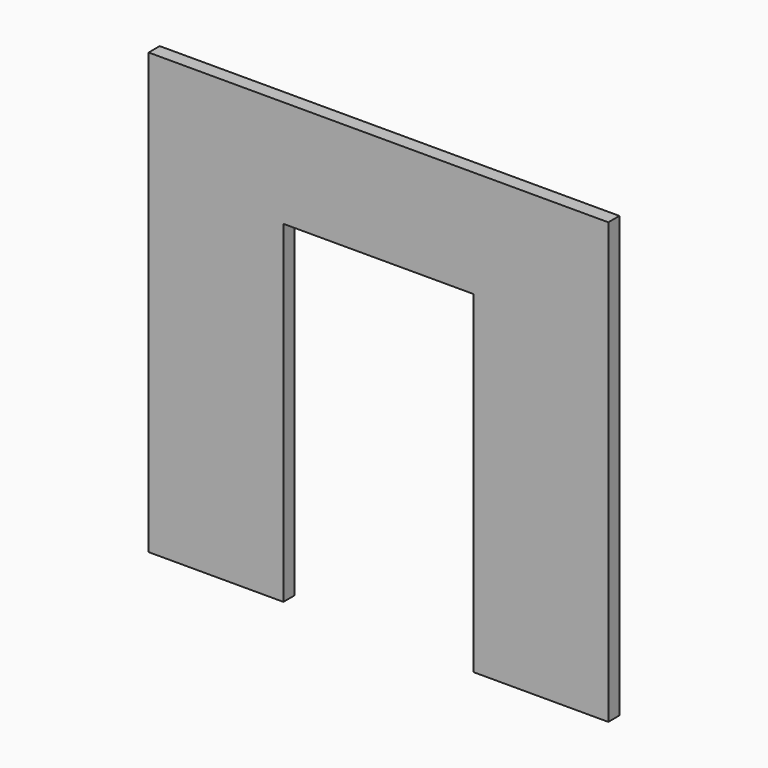
from build123d import *

# Parameters (mm, degrees)
F1_DEPTH = 12.7
F2_W     = 38.1
F2_H     = 2743.2
F2_H_2   = 609.6
F3_DEPTH = 76.2


with BuildPart() as f1:
    # F0 (on Front) → F1 (new body)
    with BuildSketch(Plane.XZ):
        Polygon((1473.2, -1409.7), (1473.2, 1409.7), (-1473.2, 1409.7), (-1473.2, -1409.7), (-609.6, -1409.7), (-609.6, 723.9), (609.6, 723.9), (609.6, -1409.7), align=None)
    extrude(amount=F1_DEPTH)

    # F2 (on face) → F3 (join)
    with BuildSketch(Plane(origin=(0, 0, 0), x_dir=(-1, 0, 0), z_dir=(0, 1, 0))):
        Polygon((1473.2, 1409.7), (-1473.2, 1409.7), (-1473.2, 1371.6), (-1435.1, 1371.6), (-1079.5, 1371.6), (-1041.4, 1371.6), (-647.7, 1371.6), (-609.6, 1371.6), (-38.1, 1371.6), (0, 1371.6), (609.6, 1371.6), (647.7, 1371.6), (1041.4, 1371.6), (1079.5, 1371.6), (1435.1, 1371.6), (1473.2, 1371.6), align=None)
        with Locations((-1454.15, 0)):
            Rectangle(F2_W, F2_H)
        with Locations((1454.15, 0)):
            Rectangle(F2_W, F2_H)
        Polygon((-1435.1, -1371.6), (-1473.2, -1371.6), (-1473.2, -1409.7), (-609.6, -1409.7), (-609.6, -1371.6), (-647.7, -1371.6), (-1041.4, -1371.6), (-1079.5, -1371.6), align=None)
        Polygon((1473.2, -1409.7), (1473.2, -1371.6), (1435.1, -1371.6), (1079.5, -1371.6), (1041.4, -1371.6), (647.7, -1371.6), (609.6, -1371.6), (609.6, -1409.7), align=None)
        Polygon((-609.6, 1371.6), (-647.7, 1371.6), (-647.7, -1371.6), (-609.6, -1371.6), (-609.6, 723.9), (-609.6, 762), align=None)
        Polygon((647.7, -1371.6), (647.7, 1371.6), (609.6, 1371.6), (609.6, 762), (609.6, 723.9), (609.6, -1371.6), align=None)
        Polygon((-609.6, 762), (-609.6, 723.9), (609.6, 723.9), (609.6, 762), (0, 762), (-38.1, 762), align=None)
        with Locations((-1060.45, 0)):
            Rectangle(F2_W, F2_H)
        with Locations((1060.45, 0)):
            Rectangle(F2_W, F2_H)
        with Locations((-19.05, 1066.8)):
            Rectangle(F2_W, F2_H_2)
    extrude(amount=F3_DEPTH)


solid = f1.part
